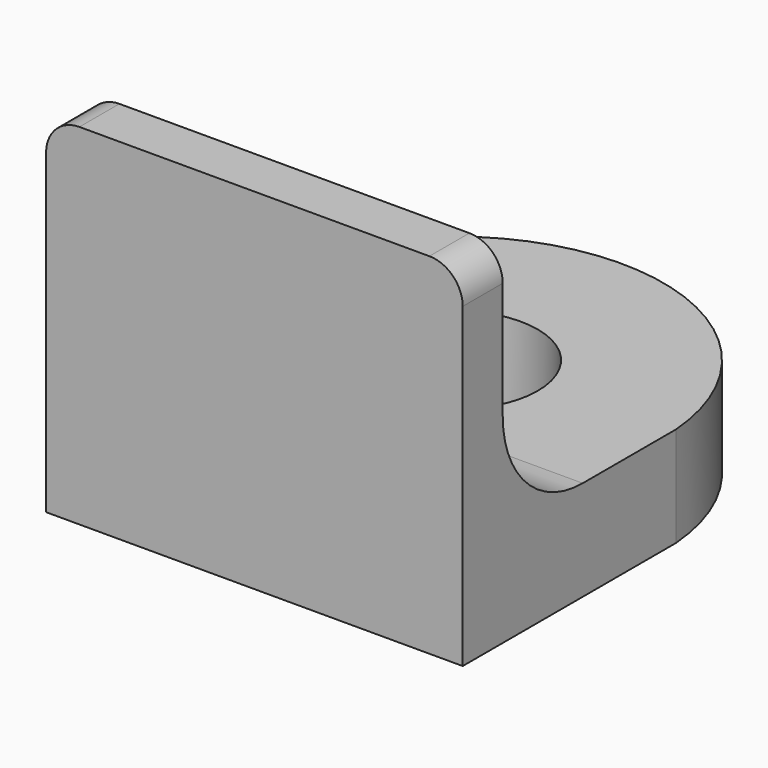
from build123d import *

# Parameters (mm, degrees)
PAD_DEPTH    = 6
SKETCH001_W  = 25
SKETCH001_H  = 3
PAD001_DEPTH = 15
FILLET_R     = 6
FILLET001_R  = 2


with BuildPart() as part:
    # Sketch → Pad (new body)
    with BuildSketch(Plane.XY):
        with BuildLine():
            Line((-12.5, 0), (12.5, 0))
            Line((12.5, 0), (12.5, 16))
            ThreePointArc((12.5, 16), (1.531208, 27.4461), (-11.884864, 19))
            Line((-11.884864, 19), (-3, 19))
            ThreePointArc((-4.898979, 16), (4.224745, 12.325765), (-3, 19))
            Line((-4.898979, 16), (-12.5, 16))
            Line((-12.5, 16), (-12.5, 0))
        make_face()
    extrude(amount=PAD_DEPTH)

    # Sketch001 → Pad001 (new body)
    with BuildSketch(Plane.XY.offset(6)):
        with Locations((0, 1.5)):
            Rectangle(SKETCH001_W, SKETCH001_H)
    extrude(amount=PAD001_DEPTH)

    # Fillet
    fillet_edges = [part.edges().sort_by_distance(p)[0] for p in [
        (0, 3, 6),
    ]]
    fillet(fillet_edges, radius=FILLET_R)

    # Fillet001
    fillet001_edges = [part.edges().sort_by_distance(p)[0] for p in [
        (-12.5, 1.5, 21),
        (12.5, 1.5, 21),
    ]]
    fillet(fillet001_edges, radius=FILLET001_R)


solid = part.part
